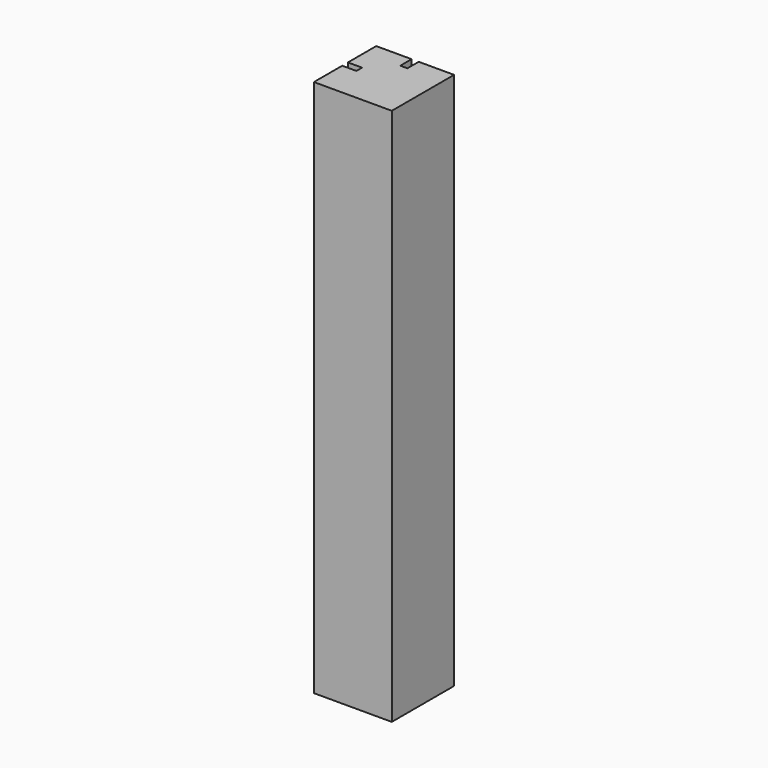
from build123d import *

# Parameters (mm, degrees)
SKETCH_W                = 55
SKETCH_H                = 55
PAD_DEPTH               = 380
POCKET_DEPTH            = 10
POLARPATTERN_COUNT      = 2
POLARPATTERN_ANGLE      = 90
BODY001_PLACEMENT_ANGLE = 90


with BuildPart() as part:
    # Sketch → Pad (new body)
    with BuildSketch(Plane.XY):
        Rectangle(SKETCH_W, SKETCH_H)
    extrude(amount=PAD_DEPTH)

    # Sketch001 (on DatumPlane) → Pocket (cut)
    with BuildSketch(Plane.YZ.offset(27.5)):
        Polygon((-10, 165), (-2.5, 165), (-2.5, 510), (2.5, 510), (2.5, 165), (10, 165), (10, 50), (-10, 50), align=None)
    pocket = extrude(amount=-POCKET_DEPTH, mode=Mode.SUBTRACT)

    # PolarPattern: Pocket ×2 about axis
    polarpattern_axis = Axis((0, 0, 0), (0, 0, 1))
    for i in range(1, POLARPATTERN_COUNT):
        add(pocket.rotate(polarpattern_axis, i * POLARPATTERN_ANGLE / (POLARPATTERN_COUNT - 1)), mode=Mode.SUBTRACT)


with BuildPart() as part_1:
    # Body placement: moved
    add(part.part.moved(Location((-10, 0, 0))))


with BuildPart() as part_2:
    # Clone placement: moved
    add(part_1.part.moved(Location((10, 0, 0))))


with BuildPart() as part_3:
    # Body001 placement: moved
    add(part_2.part.moved(Location((900, 0, 0))).rotate(Axis((900, 0, 0), (0, 0, 1)), BODY001_PLACEMENT_ANGLE))


solid = part_3.part
